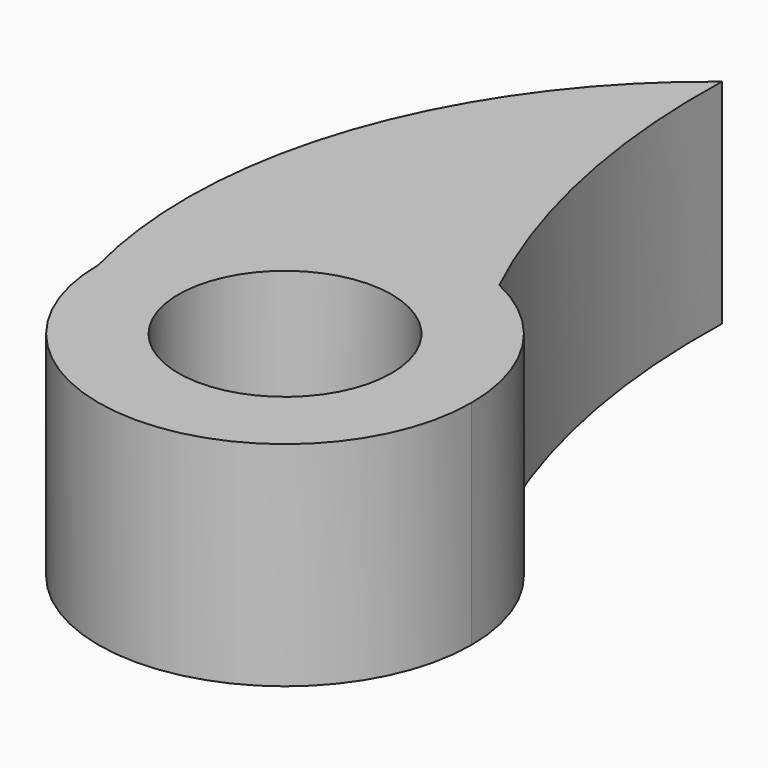
from build123d import *

# Parameters (mm, degrees)
F0_R     = 5
F1_DEPTH = 10


with BuildPart() as f1:
    # F0 (on Top) → F1 (new body)
    with BuildSketch(Plane.XY):
        with BuildLine():
            ThreePointArc((0, 25.614446), (-8.217441, 14.119816), (-8.75, 0))
            ThreePointArc((-8.75, 0), (-4.696151, 7.382999), (3.709124, 7.924954))
            ThreePointArc((3.709124, 7.924954), (0.799961, 16.548572), (0, 25.614446))
        make_face()
        with BuildLine():
            ThreePointArc((3.709124, 7.924954), (-4.696151, 7.382999), (-8.75, 0))
            ThreePointArc((-8.75, 0), (0, -8.75), (8.75, 0))
            ThreePointArc((8.75, 0), (5.986575, 3.807919), (3.709124, 7.924954))
        make_face()
        Circle(F0_R, mode=Mode.SUBTRACT)
        with BuildLine():
            ThreePointArc((3.709124, 7.924954), (5.986575, 3.807919), (8.75, 0))
            ThreePointArc((8.75, 0), (7.382999, 4.696151), (3.709124, 7.924954))
        make_face()
    extrude(amount=F1_DEPTH)


solid = f1.part
